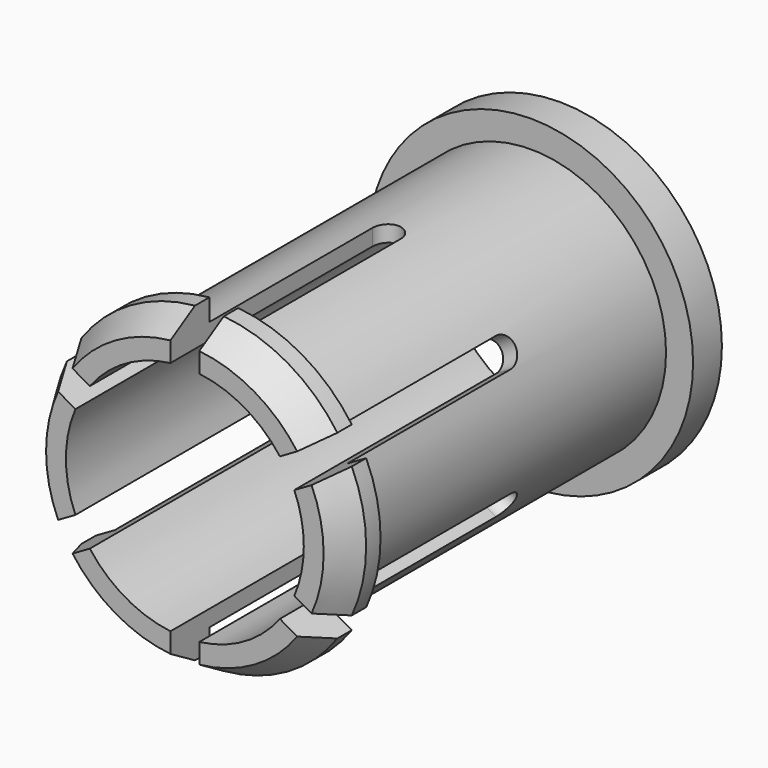
from build123d import *

# Parameters (mm, degrees)
SKETCH008_R          = 7.5
SKETCH008_R_2        = 6.6
PAD002_DEPTH         = 24
SKETCH009_R          = 9
SKETCH009_R_2        = 6.6
PAD003_DEPTH         = 2
POCKET006_DEPTH      = 81.774622
POCKET006_DEPTH_BACK = 81.774622
POLARPATTERN_COUNT   = 3


with BuildPart() as part:
    # Sketch008 (on DatumPlane) → Pad002 (new body)
    with BuildSketch(Plane.XZ.offset(50)):
        Circle(SKETCH008_R)
        Circle(SKETCH008_R_2, mode=Mode.SUBTRACT)
    extrude(amount=PAD002_DEPTH)

    # Sketch009 (on Face3 of Pad002) → Pad003 (join)
    with BuildSketch(Plane(origin=(0, -50, 0), x_dir=(1, 0, 0), z_dir=(0, 1, 0))):
        Circle(SKETCH009_R)
        Circle(SKETCH009_R_2, mode=Mode.SUBTRACT)
    extrude(amount=PAD003_DEPTH)

    # Sketch010 → Revolution (revolve)
    with BuildSketch(Plane.XY):
        Polygon((-7.5, -74), (-7.5, -71.3), (-8.7, -71.3), (-8.7, -72.3), (-7.7, -74), align=None)
    revolve(axis=Axis((0, 0, 0), (0, 1, 0)))

    # Sketch011 → Pocket006 (cut, two sides)
    with BuildSketch(Plane.XY) as pocket006_sk:
        with BuildLine():
            Line((-0.8, -74), (-0.8, -60))
            ThreePointArc((0.8, -60), (0, -59.2), (-0.8, -60))
            Line((0.8, -60), (0.8, -74))
            Line((-0.8, -74), (0.8, -74))
        make_face()
    pocket006 = extrude(amount=-POCKET006_DEPTH, mode=Mode.SUBTRACT) + extrude(pocket006_sk.sketch, amount=POCKET006_DEPTH_BACK, mode=Mode.SUBTRACT)

    # PolarPattern: Pocket006 ×3 about axis
    polarpattern_axis = Axis((0, 0, 0), (0, 1, 0))
    for i in range(1, POLARPATTERN_COUNT):
        add(pocket006.rotate(polarpattern_axis, i * 360 / POLARPATTERN_COUNT), mode=Mode.SUBTRACT)


solid = part.part
